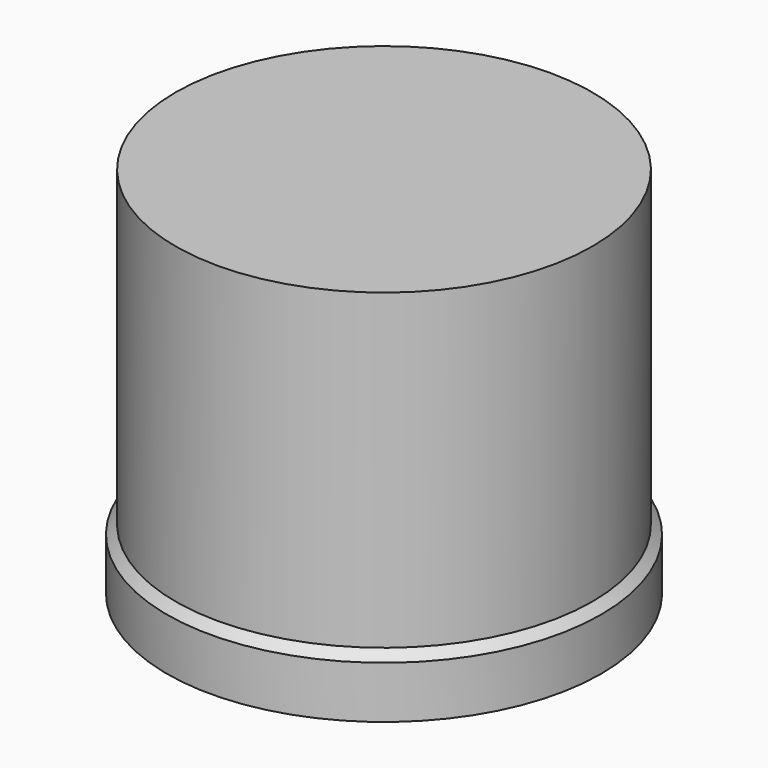
from build123d import *

# Parameters (mm, degrees)
F0_R      = 12.5
F1_DEPTH  = 3
F1_FACE_R = 12.5
F2_DEPTH  = 0.5
F2_TAPER  = 45
F3_DEPTH  = 18


with BuildPart() as f1:
    # F0 (on Top) → F1 (new body)
    with BuildSketch(Plane.XY):
        Circle(F0_R)
    extrude(amount=F1_DEPTH)

    # F1_face (on face) → F2 (join)
    with BuildSketch(Plane.XY.offset(3)):
        Circle(F1_FACE_R)
    extrude(amount=F2_DEPTH, taper=F2_TAPER)

    # F3 (add): a face of the model
    f3_faces = [f1.faces().sort_by_distance(p)[0] for p in [
        (0, 0, 3.5),
    ]]
    extrude(f3_faces, amount=F3_DEPTH)


solid = f1.part
